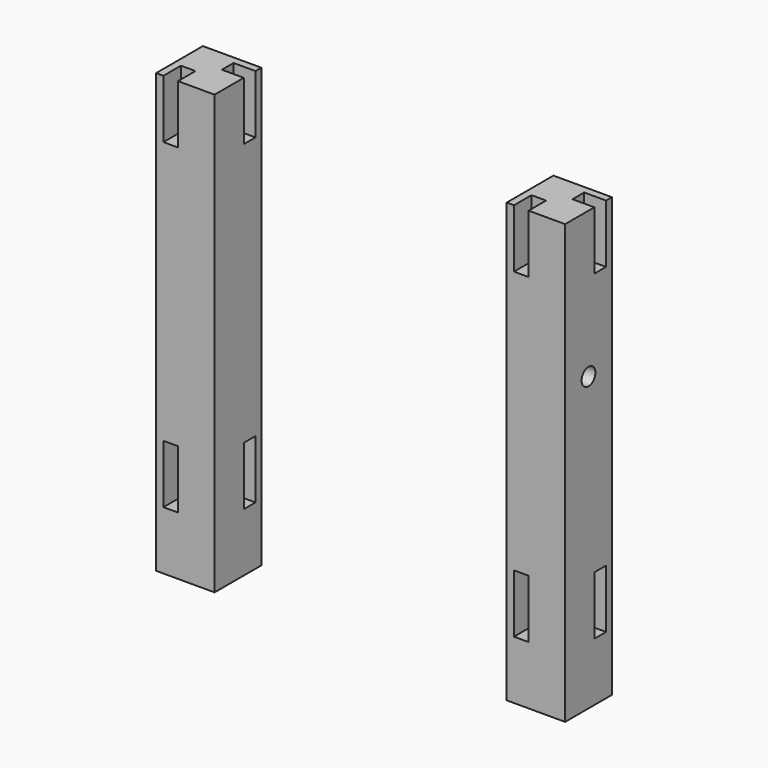
from build123d import *

# Parameters (mm, degrees)
F0_W     = 101.6
F0_H     = 101.6
F1_DEPTH = 762
F2_W     = 25.4
F2_H     = 101.6
F3_DEPTH = 38
F4_W     = 25.4
F4_H     = 101.6
F5_DEPTH = 38
F7_R     = 15
F8_DEPTH = 101.6


with BuildPart() as f1:
    # F0 (on Top) → F1 (new body)
    with BuildSketch(Plane.XY):
        Rectangle(F0_W, F0_H)
    extrude(amount=F1_DEPTH)

    # F2 (on face) → F3 (cut)
    with BuildSketch(Plane.XZ.offset(50.8)):
        with Locations((-25.4, 152.4)):
            Rectangle(F2_W, F2_H)
        with Locations((-25.4, 711.2)):
            Rectangle(F2_W, F2_H)
    extrude(amount=-F3_DEPTH, mode=Mode.SUBTRACT)

    # F4 (on face) → F5 (cut)
    with BuildSketch(Plane.YZ.offset(50.8)):
        with Locations((25.4, 152.4)):
            Rectangle(F4_W, F4_H)
        with Locations((25.4, 711.2)):
            Rectangle(F4_W, F4_H)
    extrude(amount=-F5_DEPTH, mode=Mode.SUBTRACT)


with BuildPart() as f6_1:
    # F6: copy of F1
    add(f1.part.moved(Location((609.6, 0, 0))))

    # F7 (on face) → F8 (cut, through all)
    with BuildSketch(Plane(origin=(558.8, 0, 0), x_dir=(0, -1, 0), z_dir=(-1, 0, 0))):
        with Locations((0, 508)):
            Circle(F7_R)
    extrude(amount=-F8_DEPTH, mode=Mode.SUBTRACT)


solid = Compound([f1.part, f6_1.part])
